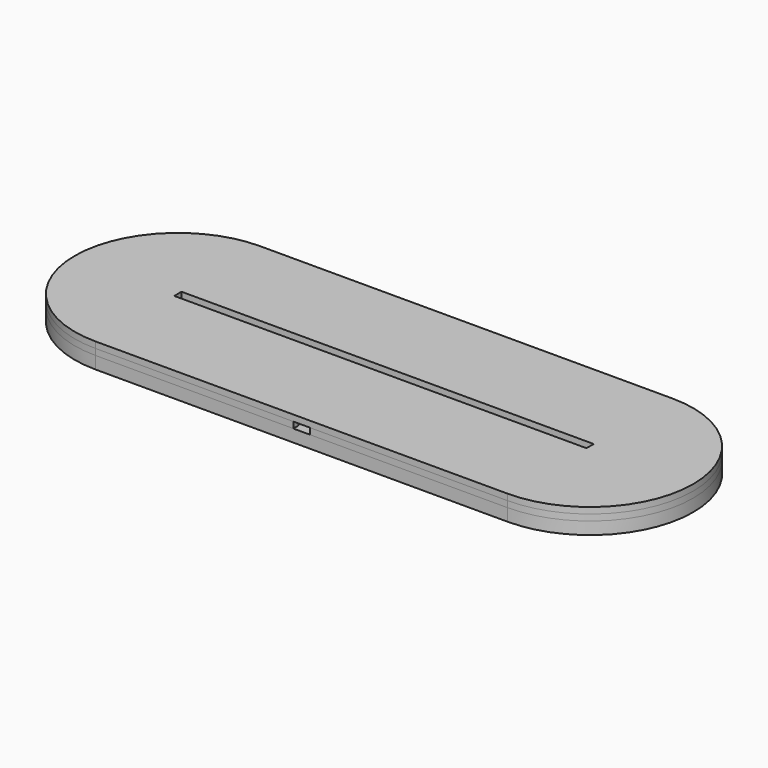
from build123d import *

# Parameters (mm, degrees)
BOX_BOTTOM_HALF_0_W     = 301.98633
BOX_BOTTOM_HALF_0_H     = 102
BOX_BOTTOM_HALF_0_DEPTH = 7
PAD_DEPTH               = 3
PAD001_DEPTH            = 3
SKETCH002_W             = 209.08447
SKETCH002_H             = 4.18
PAD002_DEPTH            = 3
SKETCH003_W             = 26.3
SKETCH003_H             = 34.2
POCKET_DEPTH            = 3
SKETCH004_W             = 18
SKETCH004_H             = 25
POCKET001_DEPTH         = 3
SKETCH005_W             = 14
SKETCH005_H             = 5
POCKET002_DEPTH         = 6
SKETCH006_W             = 14
SKETCH006_H             = 3
POCKET003_DEPTH         = 3
SKETCH007_W             = 8
SKETCH007_H             = 3
POCKET004_DEPTH         = 3
SKETCH008_W             = 200
SKETCH008_H             = 4.4
PAD003_DEPTH            = 3
BOX_BOTTOM_HALF_1_W     = 301.98633
BOX_BOTTOM_HALF_1_H     = 102
BOX_BOTTOM_HALF_1_DEPTH = 4


with BuildPart() as box_bottom_half_0_body:
    # box_bottom_half_0 → box_bottom_half_0 (new body)
    with BuildSketch(Plane(origin=(-150.993165, -51, -1), x_dir=(1, 0, 0), z_dir=(0, 0, 1))):
        with Locations((150.993165, 51)):
            Rectangle(BOX_BOTTOM_HALF_0_W, BOX_BOTTOM_HALF_0_H)
    extrude(amount=BOX_BOTTOM_HALF_0_DEPTH)


with BuildPart() as body:
    # Sketch → Pad (new body)
    with BuildSketch(Plane.XY):
        with BuildLine():
            ThreePointArc((-100, 50), (-150, 0), (-100, -50))
            Line((-100, -50), (100, -50))
            ThreePointArc((100, -50), (150, 0), (100, 50))
            Line((-100, 50), (100, 50))
        make_face()
    extrude(amount=PAD_DEPTH)

    # Sketch001 (on Face6 of Pad) → Pad001 (join)
    with BuildSketch(Plane.XY.offset(3)):
        with BuildLine():
            ThreePointArc((-100, 50), (-150, 0), (-100, -50))
            Line((-100, -50), (100, -50))
            ThreePointArc((100, -50), (150, 0), (100, 50))
            Line((-100, 50), (100, 50))
        make_face()
        with BuildLine():
            ThreePointArc((-100, 5), (-105, 0), (-100, -5))
            Line((-100, -5), (100, -5))
            ThreePointArc((100, -5), (105, 0), (100, 5))
            Line((-100, 5), (100, 5))
        make_face(mode=Mode.SUBTRACT)
    extrude(amount=PAD001_DEPTH)

    # Sketch002 (on Face9 of Pad001) → Pad002 (join)
    with BuildSketch(Plane.XY.offset(6)):
        with BuildLine():
            ThreePointArc((-100, 50), (-150, 0), (-100, -50))
            Line((-100, -50), (100, -50))
            ThreePointArc((100, -50), (150, 0), (100, 50))
            Line((-100, 50), (100, 50))
        make_face()
        Rectangle(SKETCH002_W, SKETCH002_H, mode=Mode.SUBTRACT)
    extrude(amount=PAD002_DEPTH)

    # Sketch003 (on Face13 of Pad002) → Pocket (cut)
    with BuildSketch(Plane.XY.offset(9)):
        with Locations((0, -29.9)):
            Rectangle(SKETCH003_W, SKETCH003_H)
    extrude(amount=-POCKET_DEPTH, mode=Mode.SUBTRACT)

    # Sketch004 (on Face27 of Pocket) → Pocket001 (cut)
    with BuildSketch(Plane.XY.offset(6)):
        with Locations((0, -25.3)):
            Rectangle(SKETCH004_W, SKETCH004_H)
    extrude(amount=-POCKET001_DEPTH, mode=Mode.SUBTRACT)

    # Sketch005 (on Face13 of Pocket001) → Pocket002 (cut)
    with BuildSketch(Plane.XY.offset(9)):
        with Locations((0, -10.3)):
            Rectangle(SKETCH005_W, SKETCH005_H)
    extrude(amount=-POCKET002_DEPTH, mode=Mode.SUBTRACT)

    # Sketch006 (on Face23 of Pocket002) → Pocket003 (cut)
    with BuildSketch(Plane.XZ.offset(7.8)):
        with Locations((0, 4.5)):
            Rectangle(SKETCH006_W, SKETCH006_H)
    extrude(amount=-POCKET003_DEPTH, mode=Mode.SUBTRACT)

    # Sketch007 (on Face13 of Pocket003) → Pocket004 (cut)
    with BuildSketch(Plane.XY.offset(9)):
        with Locations((0, -48.5)):
            Rectangle(SKETCH007_W, SKETCH007_H)
    extrude(amount=-POCKET004_DEPTH, mode=Mode.SUBTRACT)

    # Sketch008 (on Face15 of Pocket004) → Pad003 (join)
    with BuildSketch(Plane.XY.offset(9)):
        with BuildLine():
            ThreePointArc((-100, 50), (-150, 0), (-100, -50))
            Line((-100, -50), (100, -50))
            ThreePointArc((100, -50), (150, 0), (100, 50))
            Line((-100, 50), (100, 50))
        make_face()
        Rectangle(SKETCH008_W, SKETCH008_H, mode=Mode.SUBTRACT)
    extrude(amount=PAD003_DEPTH)


with BuildPart() as bottom_half_0_body:
    # bottom_half_0 base: copy of Body
    add(body.part)

    # bottom_half_0: intersect box_bottom_half_0 body
    add(box_bottom_half_0_body.part, mode=Mode.INTERSECT)


with BuildPart() as box_bottom_half_1_body:
    # box_bottom_half_1 → box_bottom_half_1 (new body)
    with BuildSketch(Plane(origin=(-150.993165, -51, 5), x_dir=(1, 0, 0), z_dir=(0, 0, 1))):
        with Locations((150.993165, 51)):
            Rectangle(BOX_BOTTOM_HALF_1_W, BOX_BOTTOM_HALF_1_H)
    extrude(amount=BOX_BOTTOM_HALF_1_DEPTH)


with BuildPart() as top_half_0_body:
    # top_half_0 base: copy of Body
    add(body.part)

    # top_half_0: cut box_bottom_half_0 body
    add(box_bottom_half_0_body.part, mode=Mode.SUBTRACT)


with BuildPart() as bottom_half_1_body:
    # bottom_half_1 base: copy of top_half_0 body
    add(top_half_0_body.part)

    # bottom_half_1: intersect box_bottom_half_1 body
    add(box_bottom_half_1_body.part, mode=Mode.INTERSECT)


with BuildPart() as top_half_1_body:
    # top_half_1 base: copy of top_half_0 body
    add(top_half_0_body.part)

    # top_half_1: cut box_bottom_half_1 body
    add(box_bottom_half_1_body.part, mode=Mode.SUBTRACT)


solid = Compound([bottom_half_0_body.part, bottom_half_1_body.part, top_half_1_body.part])
